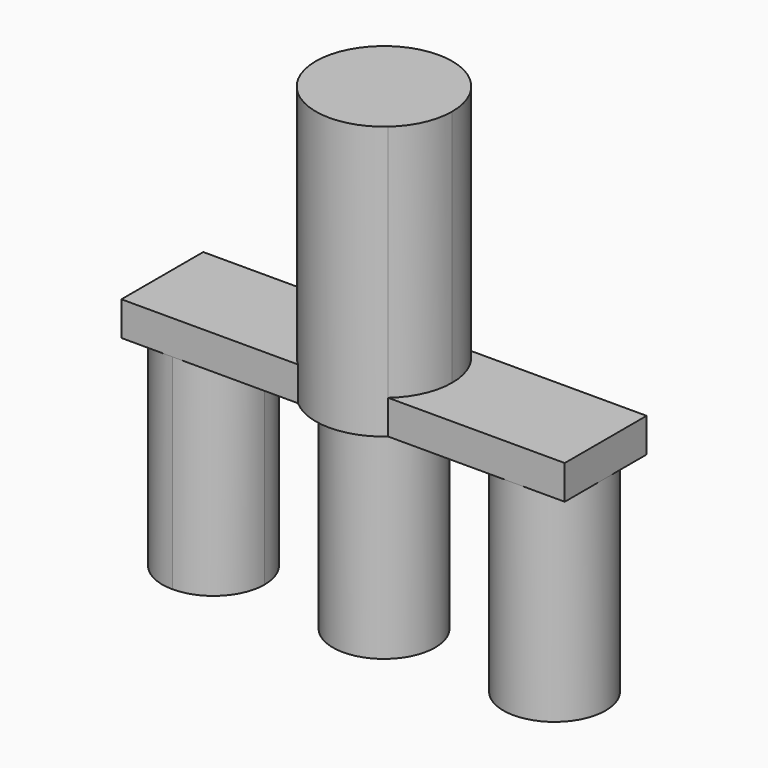
from build123d import *

# Parameters (mm, degrees)
F1_DEPTH = 12.7
F2_DEPTH = 101.6
F3_DEPTH = 76.2


with BuildPart() as f1:
    # F0 (on Top) → F1 (new body)
    with BuildSketch(Plane.XY):
        with BuildLine():
            ThreePointArc((-16.8005208253, -19.05), (-25.4, 0), (-16.8005208253, 19.05))
            Line((-16.8005208253, 19.05), (-63.5, 19.05))
            ThreePointArc((-63.5, 19.05), (-50.0296158184, 13.4703841816), (-44.45, 0))
            ThreePointArc((-44.45, 0), (-50.0296158184, -13.4703841816), (-63.5, -19.05))
            Line((-63.5, -19.05), (-16.8005208253, -19.05))
        make_face()
        with BuildLine():
            ThreePointArc((-82.55, 1.56e-07), (-76.9703841264, 13.4703842368), (-63.5, 19.05))
            Line((-63.5, 19.05), (-82.55, 19.05))
            Line((-82.55, 19.05), (-82.55, 1.56e-07))
        make_face()
        with BuildLine():
            Line((-82.55, -19.05), (-63.5, -19.05))
            ThreePointArc((-63.5, -19.05), (-76.9703842368, -13.4703841264), (-82.55, 1.56e-07))
            Line((-82.55, 1.56e-07), (-82.55, -19.05))
        make_face()
        with BuildLine():
            Line((82.55, 19.05), (63.5, 19.05))
            ThreePointArc((63.5, 19.05), (76.9703841816, 13.4703841816), (82.55, 0))
            Line((82.55, 0), (82.55, 19.05))
        make_face()
        with BuildLine():
            ThreePointArc((82.55, 0), (76.9703841816, -13.4703841816), (63.5, -19.05))
            Line((63.5, -19.05), (82.55, -19.05))
            Line((82.55, -19.05), (82.55, 0))
        make_face()
        with BuildLine():
            ThreePointArc((16.8005208253, 19.05), (23.1505208253, 10.4505208253), (25.4, 0))
            ThreePointArc((25.4, 0), (23.1505208253, -10.4505208253), (16.8005208253, -19.05))
            Line((16.8005208253, -19.05), (63.5, -19.05))
            ThreePointArc((63.5, -19.05), (44.45, 0), (63.5, 19.05))
            Line((63.5, 19.05), (16.8005208253, 19.05))
        make_face()
        with BuildLine():
            ThreePointArc((82.55, 0), (76.9703841816, 13.4703841816), (63.5, 19.05))
            ThreePointArc((63.5, 19.05), (44.45, 0), (63.5, -19.05))
            ThreePointArc((63.5, -19.05), (76.9703841816, -13.4703841816), (82.55, 0))
        make_face()
        with BuildLine():
            ThreePointArc((19.05, 0), (13.4703841605, 13.4703842027), (-5.96e-08, 19.05))
            ThreePointArc((-5.96e-08, 19.05), (-19.05, 7.1e-09), (-7.38e-08, -19.05))
            ThreePointArc((-7.38e-08, -19.05), (13.4703841555, -13.4703842077), (19.05, 0))
        make_face()
        with BuildLine():
            ThreePointArc((16.8005208253, -19.05), (23.1505208253, -10.4505208253), (25.4, 0))
            ThreePointArc((25.4, 0), (23.1505208253, 10.4505208253), (16.8005208253, 19.05))
            Line((16.8005208253, 19.05), (-5.96e-08, 19.05))
            ThreePointArc((-5.96e-08, 19.05), (13.4703841605, 13.4703842027), (19.05, 0))
            ThreePointArc((19.05, 0), (13.4703841555, -13.4703842077), (-7.38e-08, -19.05))
            Line((-7.38e-08, -19.05), (16.8005208253, -19.05))
        make_face()
        with BuildLine():
            Line((-5.96e-08, 19.05), (-16.8005208253, 19.05))
            ThreePointArc((-16.8005208253, 19.05), (-25.4, 0), (-16.8005208253, -19.05))
            Line((-16.8005208253, -19.05), (-7.38e-08, -19.05))
            ThreePointArc((-7.38e-08, -19.05), (-19.05, 7.1e-09), (-5.96e-08, 19.05))
        make_face()
        with BuildLine():
            ThreePointArc((-44.45, 0), (-50.0296158184, 13.4703841816), (-63.5, 19.05))
            ThreePointArc((-63.5, 19.05), (-76.9703841264, 13.4703842368), (-82.55, 1.56e-07))
            ThreePointArc((-82.55, 1.56e-07), (-76.9703842368, -13.4703841264), (-63.5, -19.05))
            ThreePointArc((-63.5, -19.05), (-50.0296158184, -13.4703841816), (-44.45, 0))
        make_face()
    extrude(amount=F1_DEPTH)

    # F0 (on Top) → F2 (join)
    with BuildSketch(Plane.XY):
        with BuildLine():
            Line((-5.96e-08, 19.05), (16.8005208253, 19.05))
            ThreePointArc((16.8005208253, 19.05), (0, 25.4), (-16.8005208253, 19.05))
            Line((-16.8005208253, 19.05), (-5.96e-08, 19.05))
        make_face()
        with BuildLine():
            ThreePointArc((16.8005208253, -19.05), (23.1505208253, -10.4505208253), (25.4, 0))
            ThreePointArc((25.4, 0), (23.1505208253, 10.4505208253), (16.8005208253, 19.05))
            Line((16.8005208253, 19.05), (-5.96e-08, 19.05))
            ThreePointArc((-5.96e-08, 19.05), (13.4703841605, 13.4703842027), (19.05, 0))
            ThreePointArc((19.05, 0), (13.4703841555, -13.4703842077), (-7.38e-08, -19.05))
            Line((-7.38e-08, -19.05), (16.8005208253, -19.05))
        make_face()
        with BuildLine():
            ThreePointArc((19.05, 0), (13.4703841605, 13.4703842027), (-5.96e-08, 19.05))
            ThreePointArc((-5.96e-08, 19.05), (-19.05, 7.1e-09), (-7.38e-08, -19.05))
            ThreePointArc((-7.38e-08, -19.05), (13.4703841555, -13.4703842077), (19.05, 0))
        make_face()
        with BuildLine():
            Line((-5.96e-08, 19.05), (-16.8005208253, 19.05))
            ThreePointArc((-16.8005208253, 19.05), (-25.4, 0), (-16.8005208253, -19.05))
            Line((-16.8005208253, -19.05), (-7.38e-08, -19.05))
            ThreePointArc((-7.38e-08, -19.05), (-19.05, 7.1e-09), (-5.96e-08, 19.05))
        make_face()
        with BuildLine():
            ThreePointArc((-16.8005208253, -19.05), (0, -25.4), (16.8005208253, -19.05))
            Line((16.8005208253, -19.05), (-7.38e-08, -19.05))
            Line((-7.38e-08, -19.05), (-16.8005208253, -19.05))
        make_face()
    extrude(amount=F2_DEPTH)

    # F0 (on Top) → F3 (join)
    with BuildSketch(Plane.XY):
        with BuildLine():
            ThreePointArc((82.55, 0), (76.9703841816, 13.4703841816), (63.5, 19.05))
            ThreePointArc((63.5, 19.05), (44.45, 0), (63.5, -19.05))
            ThreePointArc((63.5, -19.05), (76.9703841816, -13.4703841816), (82.55, 0))
        make_face()
        with BuildLine():
            ThreePointArc((19.05, 0), (13.4703841605, 13.4703842027), (-5.96e-08, 19.05))
            ThreePointArc((-5.96e-08, 19.05), (-19.05, 7.1e-09), (-7.38e-08, -19.05))
            ThreePointArc((-7.38e-08, -19.05), (13.4703841555, -13.4703842077), (19.05, 0))
        make_face()
        with BuildLine():
            ThreePointArc((-44.45, 0), (-50.0296158184, 13.4703841816), (-63.5, 19.05))
            ThreePointArc((-63.5, 19.05), (-76.9703841264, 13.4703842368), (-82.55, 1.56e-07))
            ThreePointArc((-82.55, 1.56e-07), (-76.9703842368, -13.4703841264), (-63.5, -19.05))
            ThreePointArc((-63.5, -19.05), (-50.0296158184, -13.4703841816), (-44.45, 0))
        make_face()
    extrude(amount=-F3_DEPTH)


solid = f1.part
